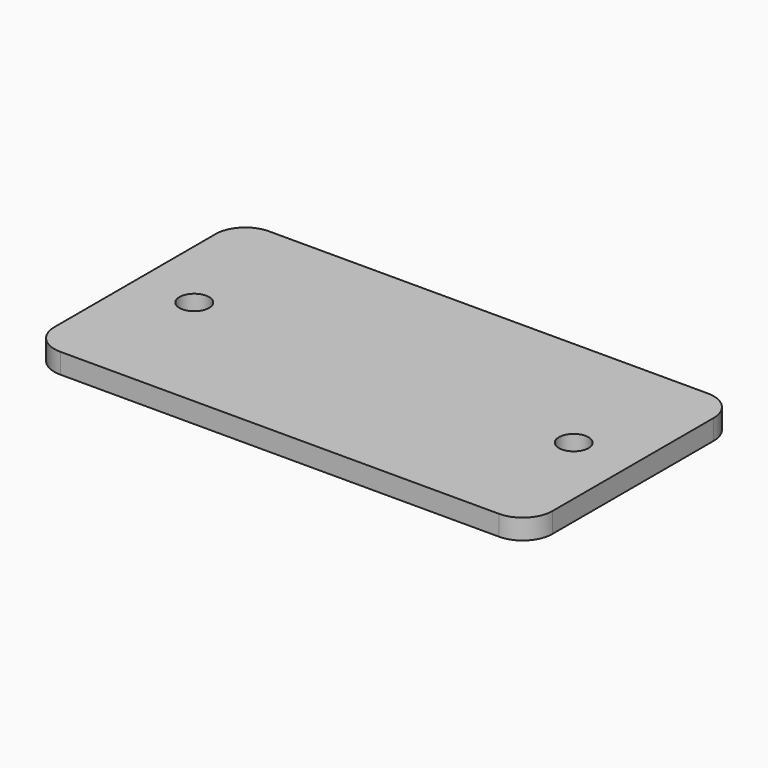
from build123d import *

# Parameters (mm, degrees)
SKETCH_R  = 2.5
PAD_DEPTH = 3.4


with BuildPart() as part:
    # Sketch → Pad (new body)
    with BuildSketch(Plane.XY):
        with BuildLine():
            Line((-42, 17), (-42, -17))
            ThreePointArc((-42, -17), (-40.535534, -20.535534), (-37, -22))
            Line((-37, -22), (37, -22))
            ThreePointArc((37, -22), (40.535534, -20.535534), (42, -17))
            Line((42, -17), (42, 17))
            ThreePointArc((42, 17), (40.535534, 20.535534), (37, 22))
            Line((37, 22), (-37, 22))
            ThreePointArc((-37, 22), (-40.535534, 20.535534), (-42, 17))
        make_face()
        with Locations((-32, 0)):
            Circle(SKETCH_R, mode=Mode.SUBTRACT)
        with Locations((32, 0)):
            Circle(SKETCH_R, mode=Mode.SUBTRACT)
    extrude(amount=PAD_DEPTH)


solid = part.part
